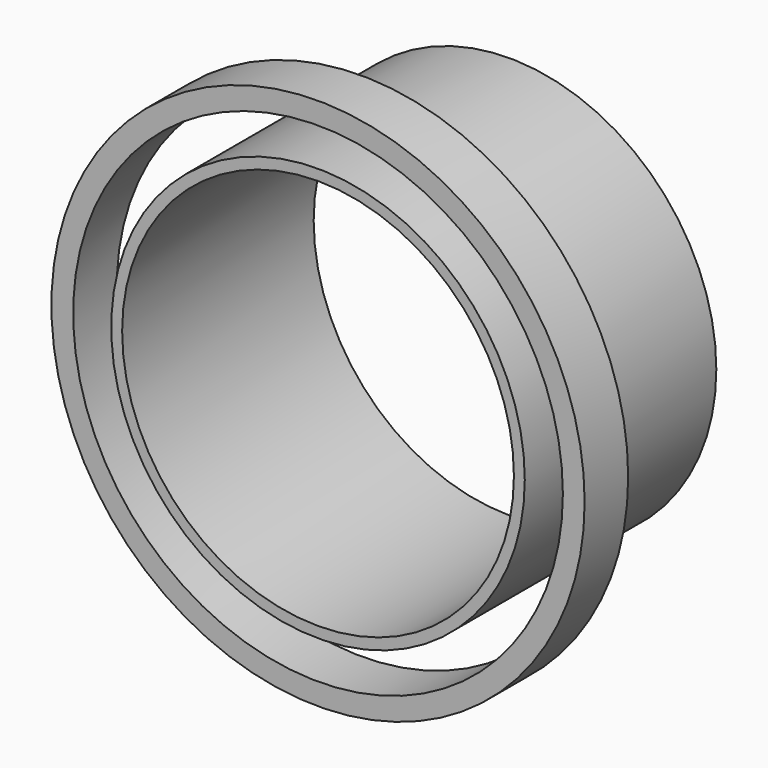
from build123d import *

# Parameters (mm, degrees)
F0_R     = 19
F1_DEPTH = 22
F2_R     = 18
F3_DEPTH = 22.001
F4_R     = 24.5
F4_R_2   = 22.5
F5_DEPTH = 5


with BuildPart() as f1:
    # F0 (on Front) → F1 (new body)
    with BuildSketch(Plane.XZ):
        Circle(F0_R)
    extrude(amount=F1_DEPTH)

    # F2 (on face) → F3 (cut, through all)
    with BuildSketch(Plane.XZ.offset(22)):
        Circle(F2_R)
    extrude(amount=-F3_DEPTH, mode=Mode.SUBTRACT)


with BuildPart() as f5:
    # F4 (on face) → F5 (new body)
    with BuildSketch(Plane.XZ.offset(22)):
        Circle(F4_R)
        Circle(F4_R_2, mode=Mode.SUBTRACT)
    extrude(amount=-F5_DEPTH)


solid = Compound([f1.part, f5.part])
